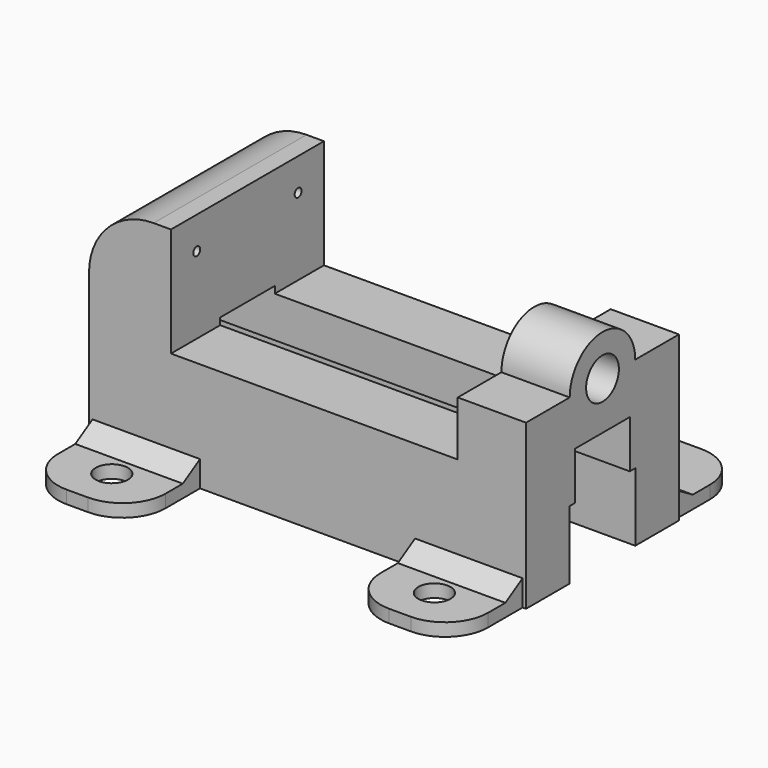
from build123d import *

# Parameters (mm, degrees)
F1_DEPTH  = 88.9
F2_R      = 30
F4_DEPTH  = 31.75
F5_R      = 7.9375
F6_DEPTH  = 55
F7_W      = 15.875
F7_H      = 22.225
F8_DEPTH  = 265
F9_W      = 50
F9_H      = 6
F10_DEPTH = 40
F11_R     = 20
F12_W     = 50
F12_H     = 6
F13_DEPTH = 40
F14_R     = 20
F16_DEPTH = 25
F18_DEPTH = 25
F20_DEPTH = 25
F22_DEPTH = 25
F24_DEPTH = 50
F26_DEPTH = 50
F28_DEPTH = 50
F30_DEPTH = 50
F31_R     = 2
F32_DEPTH = 5
F33_R     = 9.525
F33_R_2   = 7.9375
F34_DEPTH = 78.1


with BuildPart() as f1:
    # F0 (on Front) → F1 (new body)
    with BuildSketch(Plane.XZ):
        Polygon((-86.3789096475, 101.6), (-86.3789096475, 0), (116.8210903525, 0), (116.8210903525, 76.2), (85.0710903525, 76.2), (85.0710903525, 50.8), (-48.2789096475, 50.8), (-48.2789096475, 101.6), align=None)
    extrude(amount=F1_DEPTH)

    # F2
    f2_edges = [f1.edges().sort_by_distance(p)[0] for p in [
        (-86.37891, -44.45, 101.6),
    ]]
    fillet(f2_edges, radius=F2_R)

    # F3 (on face) → F4 (join)
    with BuildSketch(Plane.YZ.offset(116.8210903525)):
        with BuildLine():
            Line((-63.5, 76.2), (-25.4, 76.2))
            ThreePointArc((-25.4, 76.2), (-44.45, 95.25), (-63.5, 76.2))
        make_face()
    extrude(amount=-F4_DEPTH)

    # F5 (on face) → F6 (cut)
    with BuildSketch(Plane.YZ.offset(116.8210903525)):
        with Locations((-44.45, 76.2)):
            Circle(F5_R)
    extrude(amount=-F6_DEPTH, mode=Mode.SUBTRACT)

    # F7 (on face) → F8 (cut)
    with BuildSketch(Plane.YZ.offset(116.8210903525)):
        Polygon((-63.5, 0), (-44.45, 0), (-25.4, 0), (-25.4, 31.75), (-28.575, 31.75), (-44.45, 31.75), (-60.325, 31.75), (-63.5, 31.75), align=None)
        with Locations((-52.3875, 42.8625)):
            Rectangle(F7_W, F7_H)
        with Locations((-36.5125, 42.8625)):
            Rectangle(F7_W, F7_H)
    extrude(amount=-F8_DEPTH, mode=Mode.SUBTRACT)

    # F9 (on face) → F10 (join)
    with BuildSketch(Plane.XZ.offset(88.9)):
        with Locations((-59.7789096475, 3)):
            Rectangle(F9_W, F9_H)
        with Locations((90.2210903525, 3)):
            Rectangle(F9_W, F9_H)
    extrude(amount=F10_DEPTH)

    # F11
    f11_edges = [f1.edges().sort_by_distance(p)[0] for p in [
        (-84.77891, -128.9, 3),
        (-34.77891, -128.9, 3),
        (65.22109, -128.9, 3),
        (115.22109, -128.9, 3),
    ]]
    fillet(f11_edges, radius=F11_R)

    # F12 (on face) → F13 (join)
    with BuildSketch(Plane(origin=(0, 0, 0), x_dir=(-1, 0, 0), z_dir=(0, 1, 0))):
        with Locations((-90.2210903525, 3)):
            Rectangle(F12_W, F12_H)
        with Locations((59.7789096475, 3)):
            Rectangle(F12_W, F12_H)
    extrude(amount=F13_DEPTH)

    # F14
    f14_edges = [f1.edges().sort_by_distance(p)[0] for p in [
        (115.22109, 40, 3),
        (65.22109, 40, 3),
        (-34.77891, 40, 3),
        (-84.77891, 40, 3),
    ]]
    fillet(f14_edges, radius=F14_R)

    # F15 (on face) → F16 (cut)
    with BuildSketch(Plane.XY.offset(6)):
        with BuildLine():
            ThreePointArc((97.7210903525, 20), (95.5243912114, 25.3033008589), (90.2210903525, 27.5))
            ThreePointArc((90.2210903525, 27.5), (84.9177894936, 14.6966991411), (97.7210903525, 20))
        make_face()
    extrude(amount=-F16_DEPTH, mode=Mode.SUBTRACT)

    # F17 (on face) → F18 (cut)
    with BuildSketch(Plane.XY.offset(6)):
        with BuildLine():
            ThreePointArc((-52.2789096475, 20), (-54.4756087886, 25.3033008589), (-59.7789096475, 27.5))
            ThreePointArc((-59.7789096475, 27.5), (-65.0822105064, 14.6966991411), (-52.2789096475, 20))
        make_face()
    extrude(amount=-F18_DEPTH, mode=Mode.SUBTRACT)

    # F19 (on face) → F20 (cut)
    with BuildSketch(Plane.XY.offset(6)):
        with BuildLine():
            ThreePointArc((-52.2789096475, -108.9), (-65.0822105064, -103.5966991411), (-59.7789096475, -116.4))
            ThreePointArc((-59.7789096475, -116.4), (-54.4756087886, -114.2033008589), (-52.2789096475, -108.9))
        make_face()
    extrude(amount=-F20_DEPTH, mode=Mode.SUBTRACT)

    # F21 (on face) → F22 (cut)
    with BuildSketch(Plane.XY.offset(6)):
        with BuildLine():
            ThreePointArc((97.7210903525, -108.9), (84.9177894936, -103.5966991411), (90.2210903525, -116.4))
            ThreePointArc((90.2210903525, -116.4), (95.5243912114, -114.2033008589), (97.7210903525, -108.9))
        make_face()
    extrude(amount=-F22_DEPTH, mode=Mode.SUBTRACT)

    # F23 (on face) → F24 (join)
    with BuildSketch(Plane(origin=(-84.7789096475, 0, 0), x_dir=(0, -1, 0), z_dir=(-1, 0, 0))):
        Polygon((88.9, 6), (98.9, 6), (88.9, 12), align=None)
    extrude(amount=-F24_DEPTH)

    # F25 (on face) → F26 (join)
    with BuildSketch(Plane.YZ.offset(115.2210903525)):
        Polygon((-88.9, 12), (-98.9, 6), (-88.9, 6), align=None)
    extrude(amount=-F26_DEPTH)

    # F27 (on face) → F28 (join)
    with BuildSketch(Plane.YZ.offset(115.2210903525)):
        Polygon((0, 6), (10, 6), (0, 12), align=None)
    extrude(amount=-F28_DEPTH)

    # F29 (on face) → F30 (join)
    with BuildSketch(Plane(origin=(-84.7789096475, 0, 0), x_dir=(0, -1, 0), z_dir=(-1, 0, 0))):
        Polygon((0, 12), (-10, 6), (0, 6), align=None)
    extrude(amount=-F30_DEPTH)

    # F31 (on face) → F32 (cut)
    with BuildSketch(Plane.YZ.offset(-48.2789096475)):
        with BuildLine():
            ThreePointArc((-71.9, 86.6), (-73.9, 88.6), (-75.9, 86.6))
            ThreePointArc((-75.9, 86.6), (-73.9, 84.6), (-71.9, 86.6))
        make_face()
        with Locations((-15, 86.6)):
            Circle(F31_R)
    extrude(amount=-F32_DEPTH, mode=Mode.SUBTRACT)

    # F33 (on face) → F34 (cut)
    with BuildSketch(Plane.YZ.offset(116.8210903525)):
        with Locations((-44.45, 76.2)):
            Circle(F33_R)
        with Locations((-44.45, 76.2)):
            Circle(F33_R_2, mode=Mode.SUBTRACT)
    extrude(amount=-F34_DEPTH, mode=Mode.SUBTRACT)


solid = f1.part
